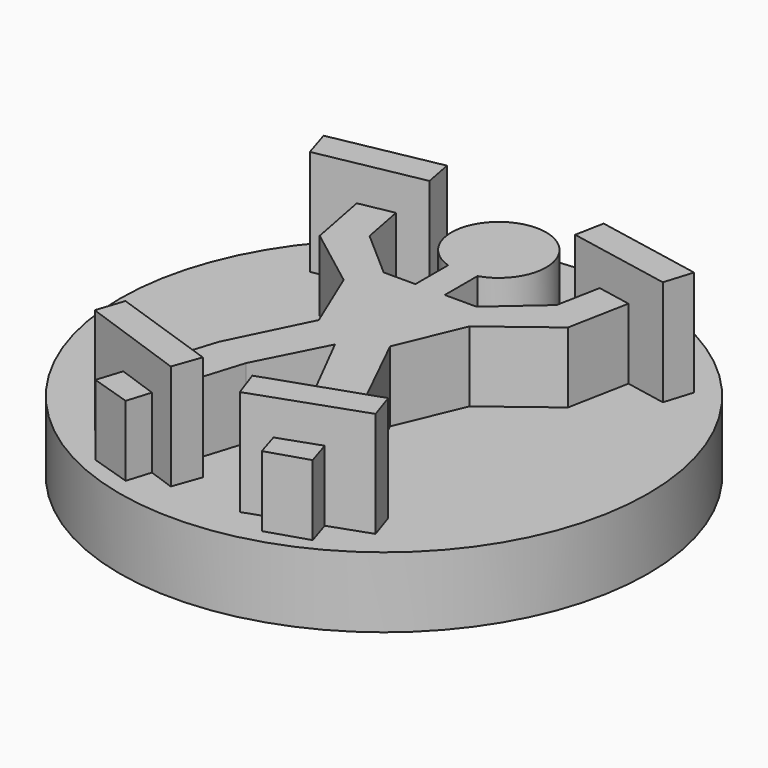
from build123d import *

# Parameters (mm, degrees)
F0_R     = 7.5
F1_DEPTH = 2
F3_DEPTH = 2
F5_DEPTH = 3


with BuildPart() as f1:
    # F0 (on Top) → F1 (new body)
    with BuildSketch(Plane.XY):
        Circle(F0_R)
    extrude(amount=F1_DEPTH)

    # F2 (on face) → F3 (join)
    with BuildSketch(Plane.XY.offset(2)):
        with BuildLine():
            Line((0, -1.738777), (0, 5.421451))
            ThreePointArc((0, 5.421451), (-1.329954, 4.285908), (-0.416891, 2.794415))
            Line((-0.416891, 2.794415), (-0.416891, 1.635802))
            Line((-0.416891, 1.635802), (-1.318156, 1.635802))
            Line((-1.318156, 1.635802), (-2.654623, 2.80521))
            Line((-2.654623, 2.80521), (-3.214125, 5.707625))
            Line((-3.214125, 5.707625), (-4.179397, 5.521548))
            Line((-4.179397, 5.521548), (-3.524426, 2.123883))
            Line((-3.524426, 2.123883), (-1.78592, 0.80051))
            Line((-1.78592, 0.80051), (-1.012103, -1.049922))
            Line((-1.012103, -1.049922), (-2.086625, -3.242302))
            Line((-2.086625, -3.242302), (-3.084522, -6.387633))
            Line((-3.084522, -6.387633), (-1.932593, -6.753098))
            Line((-1.932593, -6.753098), (-0.980974, -3.669764))
            Line((-0.980974, -3.669764), (0, -1.738777))
        make_face()
        with BuildLine():
            ThreePointArc((0.416891, 2.794415), (1.329954, 4.285908), (0, 5.421451))
            Line((0, 5.421451), (0, -1.738777))
            Line((0, -1.738777), (0.980974, -3.669764))
            Line((0.980974, -3.669764), (1.932593, -6.753098))
            Line((1.932593, -6.753098), (3.084522, -6.387633))
            Line((3.084522, -6.387633), (2.086625, -3.242302))
            Line((2.086625, -3.242302), (1.012103, -1.049922))
            Line((1.012103, -1.049922), (1.78592, 0.80051))
            Line((1.78592, 0.80051), (3.524426, 2.123883))
            Line((3.524426, 2.123883), (4.179397, 5.521548))
            Line((4.179397, 5.521548), (3.214125, 5.707625))
            Line((3.214125, 5.707625), (2.654623, 2.80521))
            Line((2.654623, 2.80521), (1.318156, 1.635802))
            Line((1.318156, 1.635802), (0.416891, 1.635802))
            Line((0.416891, 1.635802), (0.416891, 2.794415))
        make_face()
    extrude(amount=F3_DEPTH)

    # F4 (on face) → F5 (join)
    with BuildSketch(Plane.XY.offset(2)):
        Polygon((-2.225088, 5.01617), (-5.260212, 4.431086), (-5.012016, 3.632387), (-2.067746, 4.199957), align=None)
        Polygon((-0.703037, -5.554148), (-3.730533, -4.513447), (-3.987216, -5.282778), (-0.980974, -6.34256), align=None)
        Polygon((5.012016, 3.632387), (5.260212, 4.431086), (2.225088, 5.01617), (2.067746, 4.199957), align=None)
        Polygon((3.987216, -5.282778), (3.730533, -4.513447), (0.703037, -5.554148), (0.980974, -6.34256), align=None)
    extrude(amount=F5_DEPTH)


solid = f1.part
